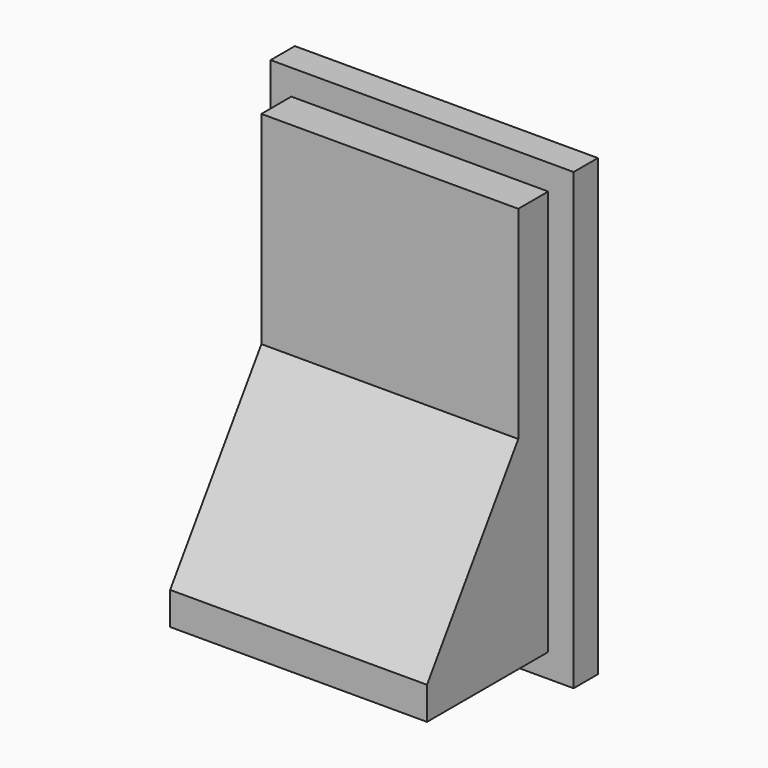
from build123d import *

# Parameters (mm, degrees)
SKETCH001_W  = 2
SKETCH001_H  = 3
PAD001_DEPTH = 0.2
SKETCH002_W  = 1.695532
SKETCH002_H  = 2.675653
PAD002_DEPTH = 1
POCKET_DEPTH = 5


with BuildPart() as part:
    # Sketch001 → Pad001 (new body)
    with BuildSketch(Plane.XZ):
        with Locations((-31.203119, 3.416212)):
            Rectangle(SKETCH001_W, SKETCH001_H)
    extrude(amount=PAD001_DEPTH)

    # Sketch002 (on Face6 of Pad001) → Pad002 (join)
    with BuildSketch(Plane.XZ.offset(0.2)):
        with Locations((-31.218465, 3.41068)):
            Rectangle(SKETCH002_W, SKETCH002_H)
    extrude(amount=PAD002_DEPTH)

    # Sketch003 (on Face10 of Pad002) → Pocket (cut)
    with BuildSketch(Plane(origin=(-32.066231, 0, 0), x_dir=(0, 0, -1), z_dir=(-1, 0, 0))):
        Polygon((-4.748507, 0.447133), (-3.410681, 0.447133), (-2.288648, 1.2), (-4.748507, 1.2), align=None)
    extrude(amount=-POCKET_DEPTH, mode=Mode.SUBTRACT)


solid = part.part
